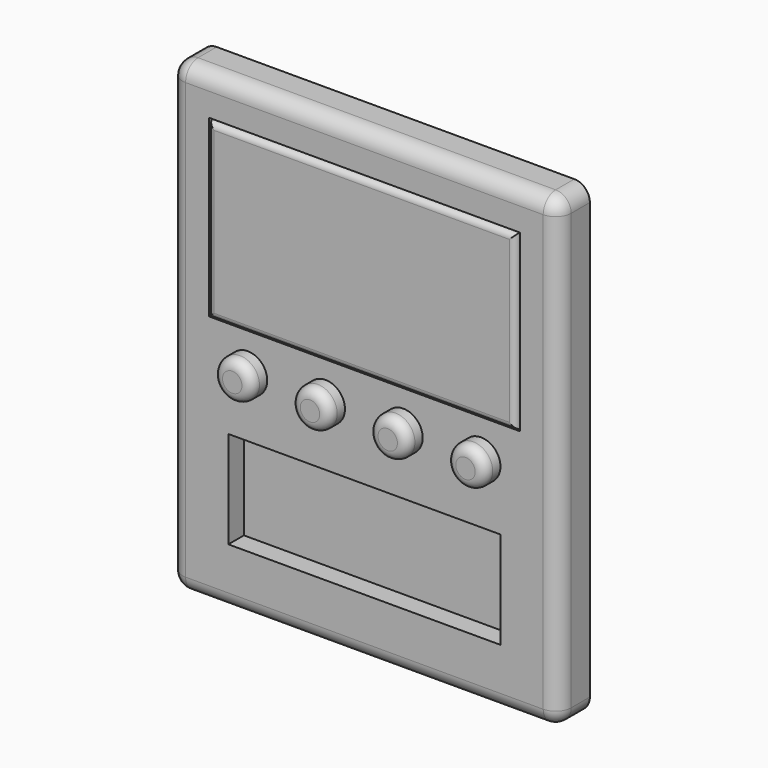
from build123d import *

# Parameters (mm, degrees)
F0_W     = 127
F0_H     = 152.4
F1_DEPTH = 12.7
F2_W     = 101.6
F2_H     = 57.15
F2_W_2   = 88.9
F2_H_2   = 31.75
F3_DEPTH = 6.35
F2_R     = 6.35
F4_DEPTH = 6.35
F6_W     = 100.3496237099
F6_H     = 56.4160710201
F7_DEPTH = 6.35
F8_R     = 3.175
F8_2_R   = 3.175
F8_3_R   = 3.175
F8_4_R   = 3.175
F9_R     = 1.905
F10_R    = 5.08


with BuildPart() as f1:
    # F0 (on Front) → F1 (new body)
    with BuildSketch(Plane.XZ):
        Rectangle(F0_W, F0_H)
    extrude(amount=-F1_DEPTH)

    # F2 (on face) → F3 (cut)
    with BuildSketch(Plane.XZ):
        with Locations((0, 34.925)):
            Rectangle(F2_W, F2_H)
        with Locations((0, -41.275)):
            Rectangle(F2_W_2, F2_H_2)
    extrude(amount=-F3_DEPTH, mode=Mode.SUBTRACT)

    # F10
    f10_edges = [f1.edges().sort_by_distance(p)[0] for p in [
        (-63.5, 6.35, 76.2),
        (63.5, 6.35, 76.2),
        (63.5, 6.35, -76.2),
        (-63.5, 6.35, -76.2),
        (0, 0, -76.2),
        (-63.5, 0, 0),
        (63.5, 0, 0),
        (0, 0, 76.2),
    ]]
    fillet(f10_edges, radius=F10_R)


with BuildPart() as f4:
    # F2 (on face) → F4 (new body)
    with BuildSketch(Plane.XZ):
        with Locations((-38.1, -5.8713643812)):
            Circle(F2_R)
    extrude(amount=F4_DEPTH)

    # F8
    f8_edges = [f4.edges().sort_by_distance(p)[0] for p in [
        (-44.45, -6.35, -5.871364),
    ]]
    fillet(f8_edges, radius=F8_R)


with BuildPart() as f4b:
    # F2 (on face) → F4, piece 2 (new body)
    with BuildSketch(Plane.XZ):
        with Locations((-12.7, -5.8713643812)):
            Circle(F2_R)
    extrude(amount=F4_DEPTH)

    # F8#2
    f8_2_edges = [f4b.edges().sort_by_distance(p)[0] for p in [
        (-19.05, -6.35, -5.871364),
    ]]
    fillet(f8_2_edges, radius=F8_2_R)


with BuildPart() as f4c:
    # F2 (on face) → F4, piece 3 (new body)
    with BuildSketch(Plane.XZ):
        with Locations((12.7, -5.8713643812)):
            Circle(F2_R)
    extrude(amount=F4_DEPTH)

    # F8#3
    f8_3_edges = [f4c.edges().sort_by_distance(p)[0] for p in [
        (6.35, -6.35, -5.871364),
    ]]
    fillet(f8_3_edges, radius=F8_3_R)


with BuildPart() as f4d:
    # F2 (on face) → F4, piece 4 (new body)
    with BuildSketch(Plane.XZ):
        with Locations((38.1, -5.8713643812)):
            Circle(F2_R)
    extrude(amount=F4_DEPTH)

    # F8#4
    f8_4_edges = [f4d.edges().sort_by_distance(p)[0] for p in [
        (31.75, -6.35, -5.871364),
    ]]
    fillet(f8_4_edges, radius=F8_4_R)


with BuildPart() as f7:
    # F6 (on offset) → F7 (new body)
    with BuildSketch(Plane.XZ.offset(-5.08)):
        with Locations((0.1294519752, 34.953397233)):
            Rectangle(F6_W, F6_H)
    extrude(amount=F7_DEPTH)

    # F9
    f9_edges = [f7.edges().sort_by_distance(p)[0] for p in [
        (-50.04536, -1.27, 34.953397),
        (0.129452, -1.27, 63.161433),
        (0.129452, -1.27, 6.745362),
        (50.304264, -1.27, 34.953397),
    ]]
    fillet(f9_edges, radius=F9_R)


solid = Compound([f1.part, f4.part, f4b.part, f4c.part, f4d.part, f7.part])
